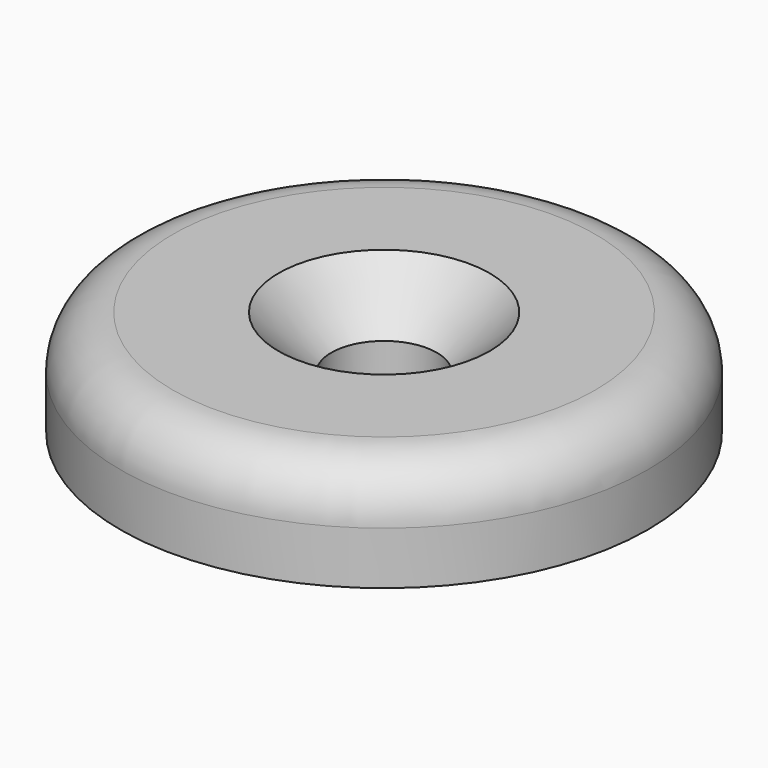
from build123d import *

# Parameters (mm, degrees)
F0_R     = 10
F0_R_2   = 2
F1_DEPTH = 4
F2_R     = 2
F3_SIZE  = 2


with BuildPart() as f1:
    # F0 (on Top) → F1 (new body)
    with BuildSketch(Plane.XY):
        Circle(F0_R)
        Circle(F0_R_2, mode=Mode.SUBTRACT)
    extrude(amount=F1_DEPTH)

    # F2
    f2_edges = [f1.edges().sort_by_distance(p)[0] for p in [
        (-10, 0, 4),
    ]]
    fillet(f2_edges, radius=F2_R)

    # F3
    f3_edges = [f1.edges().sort_by_distance(p)[0] for p in [
        (-2, 0, 4),
    ]]
    chamfer(f3_edges, length=F3_SIZE)


solid = f1.part
